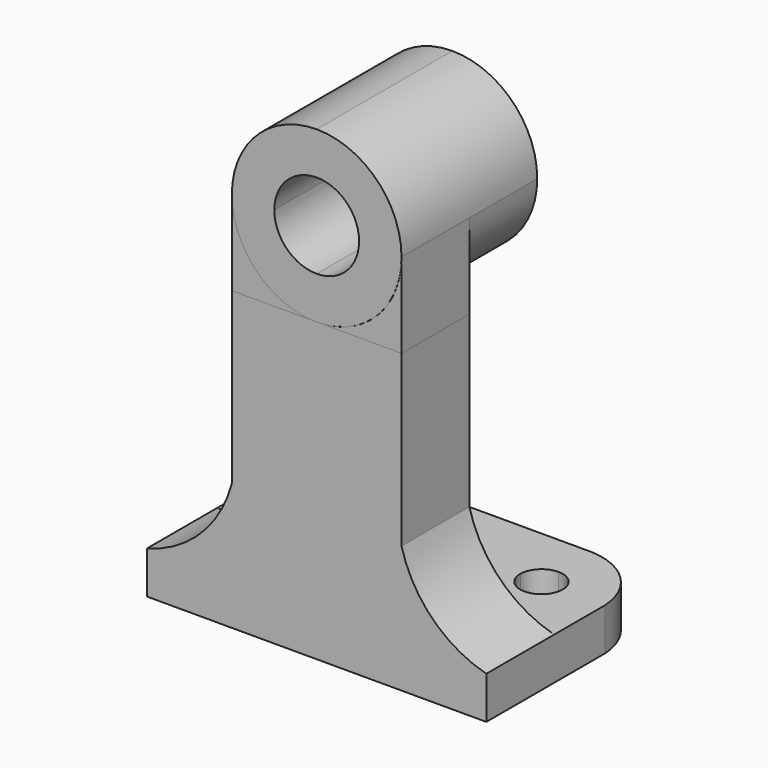
from build123d import *

# Parameters (mm, degrees)
F1_DEPTH = 50.8
F2_W     = 12.7
F2_H     = 25.4
F3_DEPTH = 31.751
F5_DEPTH = 31.751
F7_DEPTH = 12.7
F9_DEPTH = 69.851


with BuildPart() as f1:
    # F0 (on Right) → F1 (new body)
    with BuildSketch(Plane.YZ):
        Polygon((0, 69.85), (0, 0), (31.75, 0), (31.75, 6.35), (12.7, 6.35), (12.7, 44.45), (25.4, 44.45), (25.4, 69.85), align=None)
    extrude(amount=F1_DEPTH)

    # F2 (on Front) → F3 (cut, through all)
    with BuildSketch(Plane.XZ):
        with Locations((44.45, 31.75)):
            Rectangle(F2_W, F2_H)
        with Locations((44.45, 57.15)):
            Rectangle(F2_W, F2_H)
        with BuildLine():
            ThreePointArc((0, 6.35), (8.0714738129, 10.9785261871), (12.7, 19.05))
            Line((12.7, 19.05), (0, 19.05))
            Line((0, 19.05), (0, 6.35))
        make_face()
        with Locations((6.35, 31.75)):
            Rectangle(F2_W, F2_H)
        with BuildLine():
            Line((50.8, 19.05), (38.1, 19.05))
            ThreePointArc((38.1, 19.05), (42.7282391346, 10.9782391346), (50.8, 6.35))
            Line((50.8, 6.35), (50.8, 19.05))
        make_face()
        with Locations((6.35, 57.15)):
            Rectangle(F2_W, F2_H)
    extrude(amount=-F3_DEPTH, mode=Mode.SUBTRACT)

    # F4 (on Front) → F5 (cut, through all)
    with BuildSketch(Plane.XZ):
        with BuildLine():
            Line((38.1, 69.85), (25.4, 69.85))
            ThreePointArc((25.4, 69.85), (34.3802561211, 66.1302561211), (38.1, 57.15))
            Line((38.1, 57.15), (38.1, 69.85))
        make_face()
        with BuildLine():
            ThreePointArc((12.7, 57.15), (16.4197438789, 66.1302561211), (25.4, 69.85))
            Line((25.4, 69.85), (12.7, 69.85))
            Line((12.7, 69.85), (12.7, 57.15))
        make_face()
        with BuildLine():
            ThreePointArc((25.4, 44.45), (16.4197438789, 48.1697438789), (12.7, 57.15))
            Line((12.7, 57.15), (12.7, 44.45))
            Line((12.7, 44.45), (25.4, 44.45))
        make_face()
        with BuildLine():
            Line((38.1, 44.45), (38.1, 57.15))
            ThreePointArc((38.1, 57.15), (34.3802561211, 48.1697438789), (25.4, 44.45))
            Line((25.4, 44.45), (38.1, 44.45))
        make_face()
        with BuildLine():
            Line((25.4, 50.8), (25.4, 57.15))
            Line((25.4, 57.15), (19.05, 57.15))
            ThreePointArc((19.05, 57.15), (20.9098719395, 52.6598719395), (25.4, 50.8))
        make_face()
        with BuildLine():
            Line((31.75, 57.15), (25.4, 57.15))
            Line((25.4, 57.15), (25.4, 50.8))
            ThreePointArc((25.4, 50.8), (29.8901280605, 52.6598719395), (31.75, 57.15))
        make_face()
        with BuildLine():
            ThreePointArc((31.75, 57.15), (29.8901280605, 61.6401280605), (25.4, 63.5))
            Line((25.4, 63.5), (25.4, 57.15))
            Line((25.4, 57.15), (31.75, 57.15))
        make_face()
        with BuildLine():
            Line((25.4, 57.15), (25.4, 63.5))
            ThreePointArc((25.4, 63.5), (20.9098719395, 61.6401280605), (19.05, 57.15))
            Line((19.05, 57.15), (25.4, 57.15))
        make_face()
    extrude(amount=-F5_DEPTH, mode=Mode.SUBTRACT)

    # F8 (on Top) → F9 (cut, through all)
    with BuildSketch(Plane.XY):
        with BuildLine():
            ThreePointArc((6.35, 22.225), (7.2799359697, 19.9799359697), (9.525, 19.05))
            Line((9.525, 19.05), (9.525, 22.225))
            Line((9.525, 22.225), (6.35, 22.225))
        make_face()
        with BuildLine():
            Line((9.525, 25.4), (9.525, 22.225))
            Line((9.525, 22.225), (12.7, 22.225))
            ThreePointArc((12.7, 22.225), (11.7700640303, 24.4700640303), (9.525, 25.4))
        make_face()
        with BuildLine():
            Line((38.1, 22.225), (41.275, 22.225))
            Line((41.275, 22.225), (41.275, 25.4))
            ThreePointArc((41.275, 25.4), (39.0299359697, 24.4700640303), (38.1, 22.225))
        make_face()
        with BuildLine():
            Line((41.275, 22.225), (41.275, 19.05))
            ThreePointArc((41.275, 19.05), (43.5200640303, 19.9799359697), (44.45, 22.225))
            Line((44.45, 22.225), (41.275, 22.225))
        make_face()
        with BuildLine():
            Line((6.35, 22.225), (9.525, 22.225))
            Line((9.525, 22.225), (9.525, 25.4))
            ThreePointArc((9.525, 25.4), (7.2799359697, 24.4700640303), (6.35, 22.225))
        make_face()
        with BuildLine():
            Line((9.525, 22.225), (9.525, 19.05))
            ThreePointArc((9.525, 19.05), (11.7700640303, 19.9799359697), (12.7, 22.225))
            Line((12.7, 22.225), (9.525, 22.225))
        make_face()
        with BuildLine():
            ThreePointArc((38.1, 22.225), (39.0299359697, 19.9799359697), (41.275, 19.05))
            Line((41.275, 19.05), (41.275, 22.225))
            Line((41.275, 22.225), (38.1, 22.225))
        make_face()
        with BuildLine():
            Line((41.275, 25.4), (41.275, 22.225))
            Line((41.275, 22.225), (44.45, 22.225))
            ThreePointArc((44.45, 22.225), (43.5200640303, 24.4700640303), (41.275, 25.4))
        make_face()
        with BuildLine():
            Line((0, 31.75), (0, 22.225))
            ThreePointArc((0, 22.225), (2.957086208, 28.792913792), (9.525, 31.75))
            Line((9.525, 31.75), (0, 31.75))
        make_face()
        with BuildLine():
            ThreePointArc((41.275, 31.75), (47.842913792, 28.792913792), (50.8, 22.225))
            Line((50.8, 22.225), (50.8, 31.75))
            Line((50.8, 31.75), (41.275, 31.75))
        make_face()
    extrude(amount=F9_DEPTH, mode=Mode.SUBTRACT)


with BuildPart() as f7:
    # F6 (on Front) → F7 (new body)
    with BuildSketch(Plane.XZ):
        with BuildLine():
            ThreePointArc((25.413307827, 44.45), (16.4330517059, 48.1697438789), (12.713307827, 57.15))
            Line((12.713307827, 57.15), (12.713307827, 44.45))
            Line((12.713307827, 44.45), (25.413307827, 44.45))
        make_face()
    extrude(amount=-F7_DEPTH)


with BuildPart() as f7b:
    # F6 (on Front) → F7, piece 2 (new body)
    with BuildSketch(Plane.XZ):
        with BuildLine():
            Line((38.113307827, 44.45), (38.113307827, 57.15))
            ThreePointArc((38.113307827, 57.15), (34.393563948, 48.1697438789), (25.413307827, 44.45))
            Line((25.413307827, 44.45), (38.113307827, 44.45))
        make_face()
    extrude(amount=-F7_DEPTH)


solid = Compound([f1.part, f7.part, f7b.part])
